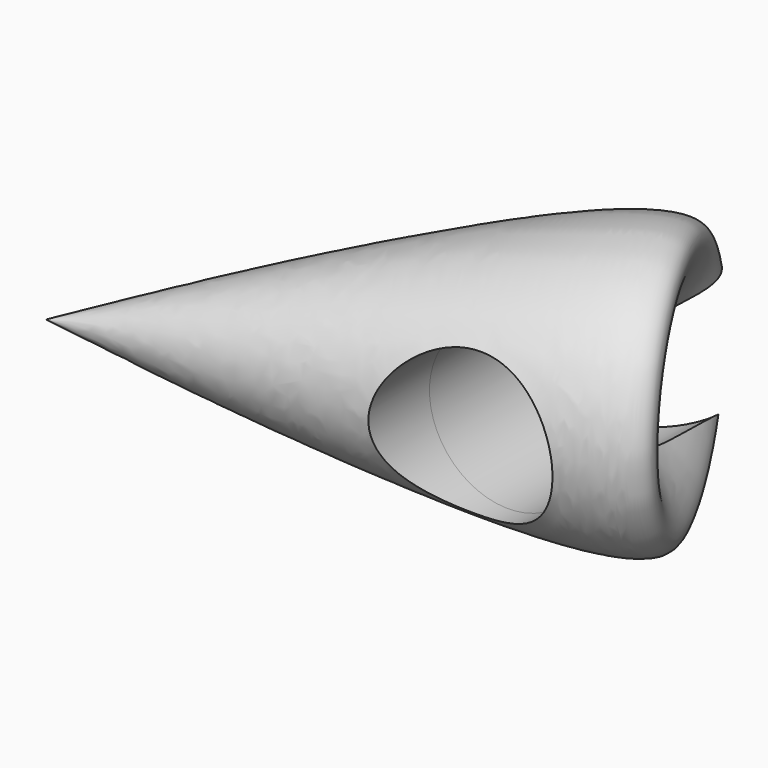
from build123d import *

# Parameters (mm, degrees)
F2_R          = 28.1850883876
F3_DEPTH      = 74.6
F3_DEPTH_BACK = 106.8


with BuildPart() as f1:
    # F0 (on Top) → F1 (revolve)
    with BuildSketch(Plane.XY):
        with BuildLine():
            Line((-101.7557159066, -39.991505444), (41.1365814507, 27.9676727951))
            add(Edge.make_bspline(
                [(41.1365814507, 27.9676727951), (47.0051589144, 51.9760491697), (60.3673583179, 106.6408660623), (-36.1725377897, 26.895106916), (-79.1338178549, -16.9200080071), (-101.7557159066, -39.991505444)],
                knots=[0, 0, 0, 0, 0.2704816575, 0.6158613164, 1, 1, 1, 1], degree=3))
        make_face()
    revolve(axis=Axis((-30.309567228, -6.0119163245, 0), (-0.9030683785, -0.429496803, 0)))

    # F2 (on Front) → F3 (cut, two sides)
    with BuildSketch(Plane.XZ) as f3_sk:
        with Locations((31.6369384527, -4.3361401185)):
            Circle(F2_R)
    extrude(amount=F3_DEPTH, mode=Mode.SUBTRACT)
    extrude(f3_sk.sketch, amount=-F3_DEPTH_BACK, mode=Mode.SUBTRACT)


solid = f1.part
